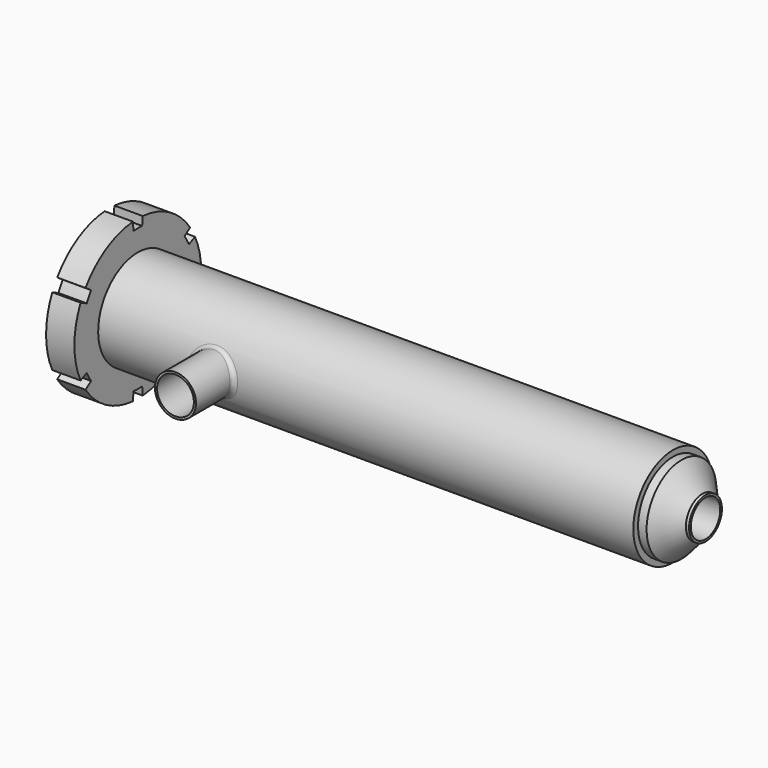
from build123d import *

# Parameters (mm, degrees)
F3_R     = 2.5
F5_DEPTH = 25
F6_R     = 14.5
F6_R_2   = 13
F7_DEPTH = 68
F8_R     = 13
F9_DEPTH = 68
F10_R    = 3


with BuildPart() as f1:
    # F0 (on Front) → F1 (revolve)
    with BuildSketch(Plane.XZ):
        Polygon((-401, 13), (0, 13), (0, 14.5), (-2.255578215, 14.5), (-16.97050035, 30.7946223766), (-23, 30.7946223766), (-23, 35), (-401, 35), (-401, 56), (-421, 56), (-421, 0), (-401, 0), align=None)
    revolve(axis=Axis((-210.5, 0, 0), (-1, 0, 0)))

    # F4: sweep along a path in F2
    with BuildLine(Plane.XZ) as f4_path:
        Line((-421, 32.5), (-426, 32.5))
        ThreePointArc((-426, 32.5), (-436.6066017178, 28.1066017178), (-441, 17.5))
        Line((-441, 17.5), (-441, 0))
        Line((-441, 0), (-441, -17.5))
        ThreePointArc((-441, -17.5), (-436.6066017178, -28.1066017178), (-426, -32.5))
        Line((-426, -32.5), (-421, -32.5))
    # F3 (on face) → F4 (sweep)
    with BuildSketch(Plane(origin=(-421, 0, 0), x_dir=(0, -1, 0), z_dir=(-1, 0, 0))):
        with Locations((0, 32.5)):
            Circle(F3_R)
    sweep(path=f4_path.line)

    # F3 (on face) → F5 (cut)
    with BuildSketch(Plane(origin=(-421, 0, 0), x_dir=(0, -1, 0), z_dir=(-1, 0, 0))):
        with BuildLine():
            ThreePointArc((-3.8461538462, 49.8518515262), (0, 50), (3.8461538462, 49.8518515262))
            Line((3.8461538462, 49.8518515262), (4.3076923077, 55.8340737094))
            ThreePointArc((4.3076923077, 55.8340737094), (0, 56), (-4.3076923077, 55.8340737094))
            Line((-4.3076923077, 55.8340737094), (-3.8461538462, 49.8518515262))
        make_face()
        with BuildLine():
            ThreePointArc((50.5075723829, 24.1864658845), (48.4974226119, 28), (46.1998800752, 31.6476078248))
            Line((46.1998800752, 31.6476078248), (41.2498929243, 28.2567927007))
            ThreePointArc((41.2498929243, 28.2567927007), (43.3012701892, 25), (45.0960467705, 21.5950588255))
            Line((45.0960467705, 21.5950588255), (50.5075723829, 24.1864658845))
        make_face()
        with BuildLine():
            ThreePointArc((46.1998800752, -31.6476078248), (48.4974226119, -28), (50.5075723829, -24.1864658845))
            Line((50.5075723829, -24.1864658845), (45.0960467705, -21.5950588255))
            ThreePointArc((45.0960467705, -21.5950588255), (43.3012701892, -25), (41.2498929243, -28.2567927007))
            Line((41.2498929243, -28.2567927007), (46.1998800752, -31.6476078248))
        make_face()
        with BuildLine():
            Line((-3.8461538462, -49.8518515262), (-4.3076923077, -55.8340737094))
            ThreePointArc((-4.3076923077, -55.8340737094), (0, -56), (4.3076923077, -55.8340737094))
            Line((4.3076923077, -55.8340737094), (3.8461538462, -49.8518515262))
            ThreePointArc((3.8461538462, -49.8518515262), (0, -50), (-3.8461538462, -49.8518515262))
        make_face()
        with BuildLine():
            Line((-45.0960467705, -21.5950588255), (-50.5075723829, -24.1864658845))
            ThreePointArc((-50.5075723829, -24.1864658845), (-48.4974226119, -28), (-46.1998800752, -31.6476078248))
            Line((-46.1998800752, -31.6476078248), (-41.2498929243, -28.2567927007))
            ThreePointArc((-41.2498929243, -28.2567927007), (-43.3012701892, -25), (-45.0960467705, -21.5950588255))
        make_face()
        with BuildLine():
            Line((-41.2498929243, 28.2567927007), (-46.1998800752, 31.6476078248))
            ThreePointArc((-46.1998800752, 31.6476078248), (-48.4974226119, 28), (-50.5075723829, 24.1864658845))
            Line((-50.5075723829, 24.1864658845), (-45.0960467705, 21.5950588255))
            ThreePointArc((-45.0960467705, 21.5950588255), (-43.3012701892, 25), (-41.2498929243, 28.2567927007))
        make_face()
    extrude(amount=-F5_DEPTH, mode=Mode.SUBTRACT)

    # F6 (on Front) → F7 (join)
    with BuildSketch(Plane.XZ):
        with Locations((-320, 0)):
            Circle(F6_R)
        with Locations((-320, 0)):
            Circle(F6_R_2, mode=Mode.SUBTRACT)
    extrude(amount=F7_DEPTH)

    # F8 (on face) → F9 (cut)
    with BuildSketch(Plane.XZ.offset(68)):
        with Locations((-320, 0)):
            Circle(F8_R)
    extrude(amount=-F9_DEPTH, mode=Mode.SUBTRACT)

    # F10
    f10_edges = [f1.edges().sort_by_distance(p)[0] for p in [
        (-334.5, -35, 0),
    ]]
    fillet(f10_edges, radius=F10_R)


solid = f1.part
